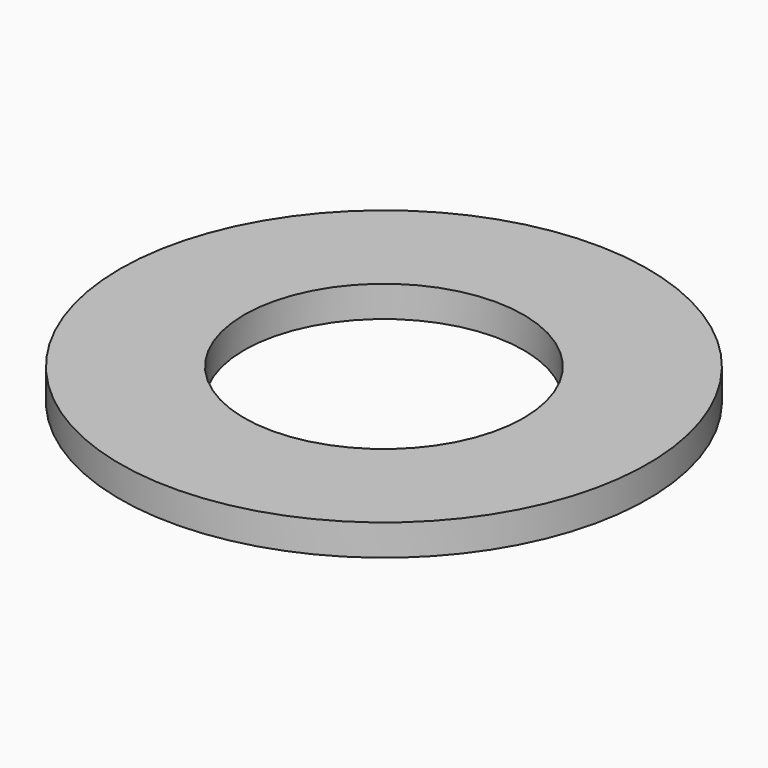
from build123d import *

# Parameters (mm, degrees)
SKETCH021_R   = 8.5
SKETCH021_R_2 = 4.5
PAD023_DEPTH  = 1


with BuildPart() as clone_of_spacer:
    # Sketch021 → Pad023 (new body)
    with BuildSketch(Plane.XY.offset(29)):
        with Locations((-23, 23)):
            Circle(SKETCH021_R)
        with Locations((-23, 23)):
            Circle(SKETCH021_R_2, mode=Mode.SUBTRACT)
    extrude(amount=PAD023_DEPTH)


with BuildPart() as part_mirroring042:
    # Part__Mirroring042: instance of Clone of spacer
    add(clone_of_spacer.part.mirror(Plane(origin=(0, 0, 0), x_dir=(1, 0, 0), z_dir=(0, 1, 0))))


with BuildPart() as part_mirroring044:
    # Part__Mirroring044: instance of Part__Mirroring042
    add(part_mirroring042.part.mirror(Plane(origin=(0, 0, 0), x_dir=(0, -1, 0), z_dir=(1, 0, 0))))


solid = part_mirroring044.part
